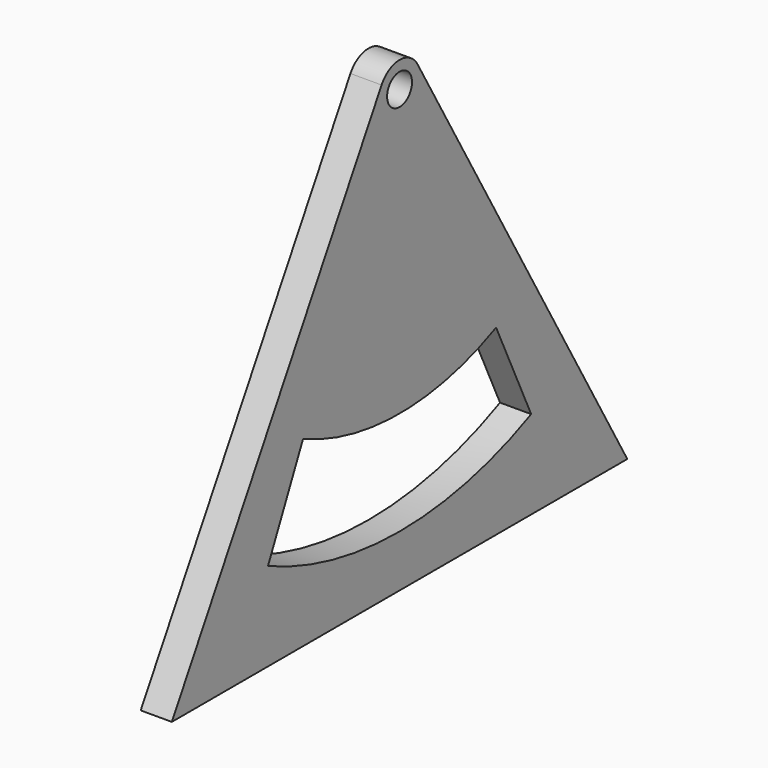
from build123d import *

# Parameters (mm, degrees)
F0_R     = 3
F1_DEPTH = 6
F3_DEPTH = 6
F4_R     = 5


with BuildPart() as f1:
    # F0 (on Right) → F1 (new body)
    with BuildSketch(Plane.YZ):
        Polygon((0, 63.333333), (-54.848276, -31.666667), (54.848276, -31.666667), align=None)
        with Locations((0, 53.333333)):
            Circle(F0_R, mode=Mode.SUBTRACT)
    extrude(amount=F1_DEPTH)

    # F2 (on face) → F3 (cut, through all)
    with BuildSketch(Plane.YZ.offset(6)):
        with BuildLine():
            ThreePointArc((23.244004, 3.486405), (0, -1.666667), (-23.244004, 3.486405))
            Line((-23.244004, 3.486405), (-31.69637, -14.639751))
            ThreePointArc((-31.69637, -14.639751), (0, -21.666667), (31.69637, -14.639751))
            Line((31.69637, -14.639751), (23.244004, 3.486405))
        make_face()
    extrude(amount=-F3_DEPTH, mode=Mode.SUBTRACT)

    # F4
    f4_edges = [f1.edges().sort_by_distance(p)[0] for p in [
        (3, 0, 63.333333),
    ]]
    fillet(f4_edges, radius=F4_R)


solid = f1.part
